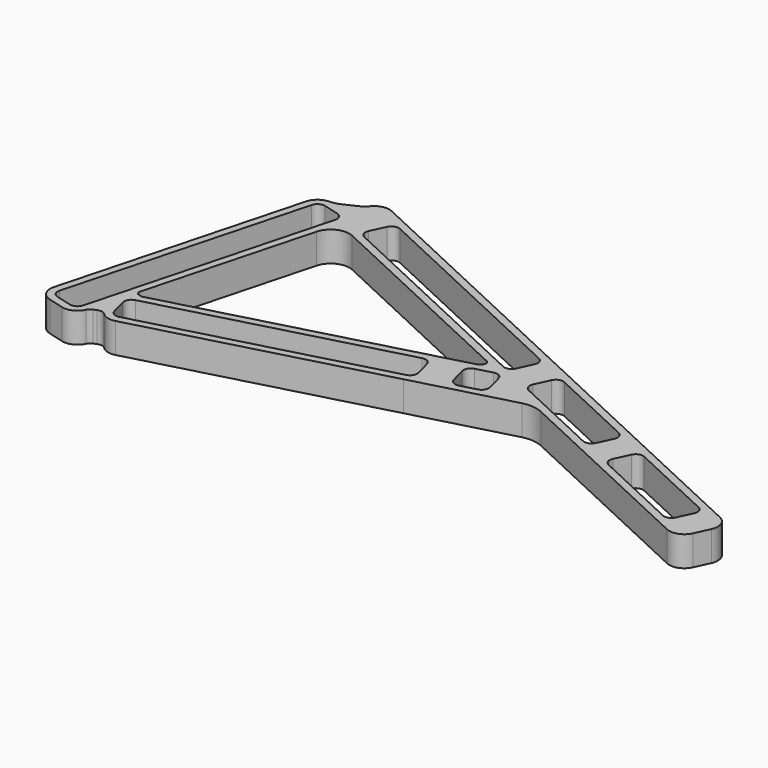
from build123d import *

# Parameters (mm, degrees)
F1_DEPTH = 8
F2_R     = 5


with BuildPart() as f1:
    # F0 (on Top) → F1 (new body)
    with BuildSketch(Plane.XY):
        with BuildLine():
            ThreePointArc((14.248786, 71.37788), (12.750499, 70.853022), (11.178073, 70.634359))
            ThreePointArc((11.178073, 70.634359), (8.837059, 69.762961), (7.469486, 67.672644))
            Line((7.469486, 67.672644), (-9.431398, 4.597688))
            ThreePointArc((-9.431398, 4.597688), (-9.031796, 1.562412), (-6.602971, -0.301292))
            Line((-6.602971, -0.301292), (-2.44949, -1.414214))
            ThreePointArc((-2.44949, -1.414214), (0.273796, -1.176889), (2.208717, 0.754093))
            ThreePointArc((2.208717, 0.754093), (2.633248, 1.34737), (3.242311, 1.748924))
            Line((3.242311, 1.748924), (4.121107, 2.119931))
            ThreePointArc((4.121107, 2.119931), (5.282511, 2.240283), (6.313193, 1.691615))
            ThreePointArc((6.313193, 1.691615), (8.106344, 0.656339), (10.176896, 0.656339))
            Line((10.176896, 0.656339), (73.564489, 17.640993))
            Line((73.564489, 17.640993), (99.557932, 24.605915))
            ThreePointArc((99.557932, 24.605915), (102.325731, 24.848066), (105.009431, 24.128971))
            Line((105.009431, 24.128971), (158.828727, -0.967379))
            ThreePointArc((158.828727, -0.967379), (161.88728, -1.100918), (164.144431, 0.967379))
            Line((164.144431, 0.967379), (165.96169, 4.864503))
            ThreePointArc((165.96169, 4.864503), (166.095229, 7.923056), (164.026931, 10.180207))
            Line((164.026931, 10.180207), (24.101743, 75.428393))
            ThreePointArc((24.101743, 75.428393), (21.621409, 75.724402), (19.449104, 74.491205))
            ThreePointArc((19.449104, 74.491205), (18.270863, 73.42721), (16.905718, 72.616827))
            Line((16.905718, 72.616827), (14.248786, 71.37788))
        make_face()
        with BuildLine():
            ThreePointArc((9.659258, 2.58819), (8.14162, 2.787991), (7.209769, 4.002404))
            Line((7.209769, 4.002404), (6.096847, 8.155885))
            ThreePointArc((6.096847, 8.155885), (6.296647, 9.673523), (7.51106, 10.605375))
            Line((7.51106, 10.605375), (70.586017, 27.506258))
            ThreePointArc((70.586017, 27.506258), (72.103655, 27.306458), (73.035506, 26.092045))
            Line((73.035506, 26.092045), (74.148428, 21.938564))
            ThreePointArc((74.148428, 21.938564), (73.948627, 20.420926), (72.734215, 19.489074))
            Line((72.734215, 19.489074), (9.659258, 2.58819))
        make_face(mode=Mode.SUBTRACT)
        with BuildLine():
            Line((17.418522, 65.006808), (0.517638, 1.931852))
            ThreePointArc((0.517638, 1.931852), (-0.414214, 0.717439), (-1.931852, 0.517638))
            Line((-1.931852, 0.517638), (-6.085333, 1.63056))
            ThreePointArc((-6.085333, 1.63056), (-7.299745, 2.562412), (-7.499546, 4.08005))
            Line((-7.499546, 4.08005), (9.401337, 67.155006))
            ThreePointArc((9.401337, 67.155006), (10.333189, 68.369419), (11.850827, 68.56922))
            Line((11.850827, 68.56922), (16.004308, 67.456298))
            ThreePointArc((16.004308, 67.456298), (17.218721, 66.524446), (17.418522, 65.006808))
        make_face(mode=Mode.SUBTRACT)
        with BuildLine():
            Line((158.711227, 8.245449), (156.893969, 4.348325))
            ThreePointArc((156.893969, 4.348325), (155.765393, 3.314176), (154.236117, 3.380946))
            Line((154.236117, 3.380946), (131.08432, 14.176806))
            ThreePointArc((131.08432, 14.176806), (130.050171, 15.305382), (130.116941, 16.834658))
            Line((130.116941, 16.834658), (131.934199, 20.731782))
            ThreePointArc((131.934199, 20.731782), (133.062775, 21.765931), (134.592051, 21.699161))
            Line((134.592051, 21.699161), (157.743848, 10.903301))
            ThreePointArc((157.743848, 10.903301), (158.777997, 9.774725), (158.711227, 8.245449))
        make_face(mode=Mode.SUBTRACT)
        with BuildLine():
            Line((81.875835, 24.009116), (80.762913, 28.162597))
            ThreePointArc((80.762913, 28.162597), (80.962714, 29.680235), (82.177127, 30.612087))
            Line((82.177127, 30.612087), (86.330608, 31.725009))
            ThreePointArc((86.330608, 31.725009), (87.848246, 31.525208), (88.780097, 30.310795))
            Line((88.780097, 30.310795), (89.893019, 26.157314))
            ThreePointArc((89.893019, 26.157314), (89.693218, 24.639676), (88.478806, 23.707825))
            Line((88.478806, 23.707825), (84.325325, 22.594903))
            ThreePointArc((84.325325, 22.594903), (82.807687, 22.794703), (81.875835, 24.009116))
        make_face(mode=Mode.SUBTRACT)
        with BuildLine():
            Line((96.089451, 32.701938), (97.906709, 36.599061))
            ThreePointArc((97.906709, 36.599061), (99.035284, 37.63321), (100.564561, 37.56644))
            Line((100.564561, 37.56644), (123.716358, 26.77058))
            ThreePointArc((123.716358, 26.77058), (124.750507, 25.642005), (124.683737, 24.112728))
            Line((124.683737, 24.112728), (122.866479, 20.215604))
            ThreePointArc((122.866479, 20.215604), (121.737903, 19.181456), (120.208626, 19.248225))
            Line((120.208626, 19.248225), (97.05683, 30.044086))
            ThreePointArc((97.05683, 30.044086), (96.022681, 31.172661), (96.089451, 32.701938))
        make_face(mode=Mode.SUBTRACT)
        with BuildLine():
            ThreePointArc((6.573737, 12.94241), (5.966531, 13.408336), (5.86663, 14.167155))
            Line((5.86663, 14.167155), (19.251114, 64.118731))
            Line((19.251114, 64.118731), (81.961415, 34.876437))
            ThreePointArc((81.961415, 34.876437), (82.478489, 34.31215), (82.445104, 33.547511))
            Line((82.445104, 33.547511), (82.416626, 33.48644))
            ThreePointArc((82.416626, 33.48644), (81.889586, 32.799588), (81.121649, 32.399825))
            Line((81.121649, 32.399825), (7.798482, 12.752942))
            ThreePointArc((7.798482, 12.752942), (7.539663, 12.718867), (7.280844, 12.752942))
            Line((7.280844, 12.752942), (6.573737, 12.94241))
        make_face(mode=Mode.SUBTRACT)
        with BuildLine():
            ThreePointArc((26.999238, 62.712477), (25.965089, 63.841052), (26.031859, 65.370329))
            Line((26.031859, 65.370329), (27.849117, 69.267453))
            ThreePointArc((27.849117, 69.267453), (28.977692, 70.301601), (30.506969, 70.234832))
            Line((30.506969, 70.234832), (89.688868, 42.637859))
            ThreePointArc((89.688868, 42.637859), (90.723016, 41.509284), (90.656247, 39.980007))
            Line((90.656247, 39.980007), (88.838988, 36.082884))
            ThreePointArc((88.838988, 36.082884), (87.710413, 35.048735), (86.181136, 35.115505))
            Line((86.181136, 35.115505), (26.999238, 62.712477))
        make_face(mode=Mode.SUBTRACT)
    extrude(amount=F1_DEPTH)

    # F2
    f2_edges = [f1.edges().sort_by_distance(p)[0] for p in [
        (19.251114, 64.118731, 4),
    ]]
    fillet(f2_edges, radius=F2_R)


solid = f1.part
